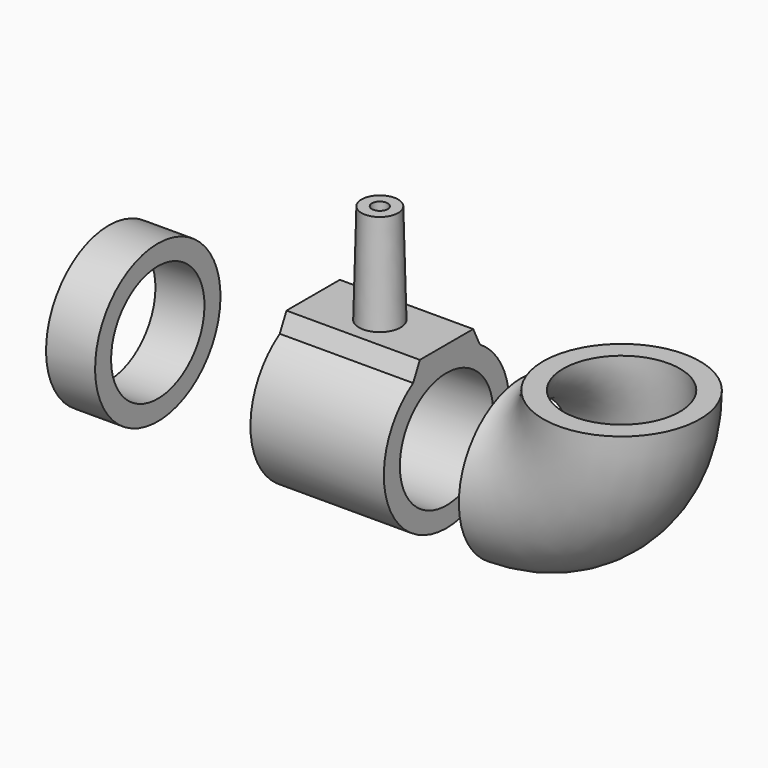
from build123d import *

# Parameters (mm, degrees)
F1_R     = 9.4
F1_R_2   = 7
F4_DEPTH = 18.3
F5_W     = 1.249609436
F5_H     = 10
F8_W     = 16
F8_H     = 46.3908466514
F8_W_2   = 23.1704358011
F8_H_2   = 47.9381382465
F8_W_3   = 5.8829372283
F8_H_3   = 50.1003395766
F9_DEPTH = 12.5


with BuildPart() as f2:
    # F2: sweep along a path in F0
    with BuildLine(Plane.XZ) as f2_path:
        ThreePointArc((-37, 0), (-33.4852813742, -8.4852813742), (-25, -12))
        Line((-25, -12), (25, -12))
        ThreePointArc((25, -12), (33.4852813742, -8.4852813742), (37, 0))
    # F1 (on Top) → F2 (sweep)
    with BuildSketch(Plane.XY):
        with Locations((-37, 0)):
            Circle(F1_R)
        with Locations((-37, 0)):
            Circle(F1_R_2, mode=Mode.SUBTRACT)
    sweep(path=f2_path.line)

    # F3 (on Right) → F4 (join, symmetric)
    with BuildSketch(Plane.YZ):
        with BuildLine():
            ThreePointArc((-7.1800707248, -8.4720282899), (0, -4), (7.1800707248, -8.4720282899))
            Line((7.1800707248, -8.4720282899), (4, -2))
            Line((4, -2), (0, -2))
            Line((0, -2), (-4, -2))
            Line((-4, -2), (-7.1800707248, -8.4720282899))
        make_face()
    extrude(amount=F4_DEPTH, both=True)

    # F5 (on Front) → F6 (revolve)
    with BuildSketch(Plane.XZ):
        Polygon((5.8, 10), (5.5, -2), (6.750390564, -2), (7.050390564, 10), align=None)
    revolve(axis=Axis((8, 0, 4), (0, 0, 1)))

    # F5 (on Front) → F7 (revolve, cut)
    with BuildSketch(Plane.XZ):
        with Locations((7.375195282, -7)):
            Rectangle(F5_W, F5_H)
    revolve(axis=Axis((8, 0, 4), (0, 0, 1)), mode=Mode.SUBTRACT)

    # F8 (on Front) → F9 (intersect, symmetric)
    with BuildSketch(Plane.XZ):
        with Locations((8, -5.7285078005)):
            Rectangle(F8_W, F8_H)
        with Locations((36.5852179006, -6.5048970282)):
            Rectangle(F8_W_2, F8_H_2)
        with Locations((-21.5789416106, -7.3923291638)):
            Rectangle(F8_W_3, F8_H_3)
    extrude(amount=F9_DEPTH, both=True, mode=Mode.INTERSECT)


solid = f2.part
